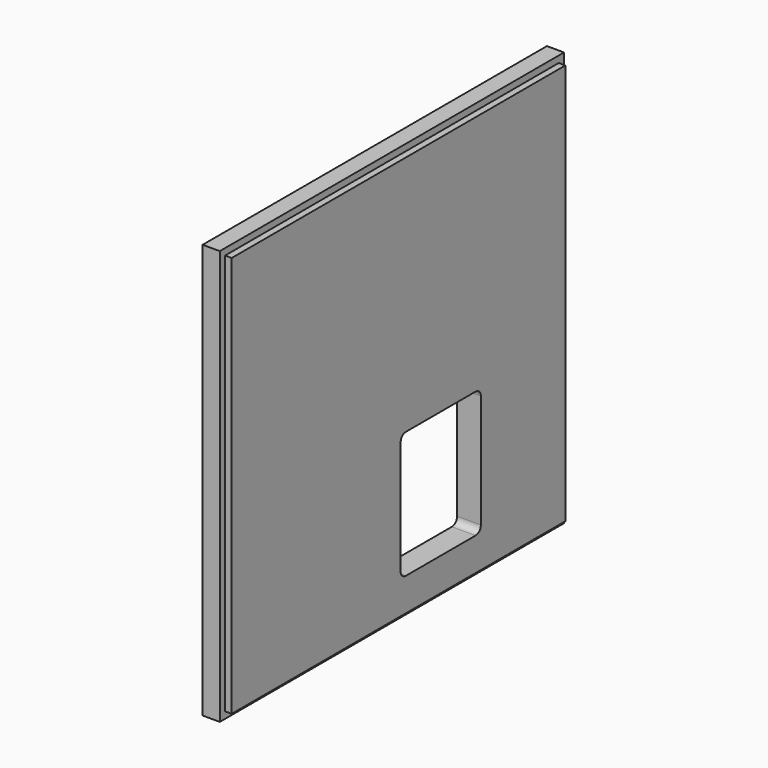
from build123d import *

# Parameters (mm, degrees)
F0_W     = 326
F0_H     = 314
F1_DEPTH = 18
F2_W     = 326
F2_H     = 314
F2_W_2   = 316
F2_H_2   = 304
F3_DEPTH = 5


with BuildPart() as f1:
    # F0 (on Right) → F1 (new body)
    with BuildSketch(Plane.YZ):
        Rectangle(F0_W, F0_H)
        with BuildLine():
            ThreePointArc((2, -36), (3.464466, -32.464466), (7, -31))
            Line((7, -31), (73, -31))
            ThreePointArc((73, -31), (76.535534, -32.464466), (78, -36))
            Line((78, -36), (78, -122))
            ThreePointArc((78, -122), (76.535534, -125.535534), (73, -127))
            Line((73, -127), (7, -127))
            ThreePointArc((7, -127), (3.464466, -125.535534), (2, -122))
            Line((2, -122), (2, -36))
        make_face(mode=Mode.SUBTRACT)
    extrude(amount=-F1_DEPTH)

    # F2 (on face) → F3 (cut)
    with BuildSketch(Plane.YZ):
        Rectangle(F2_W, F2_H)
        Rectangle(F2_W_2, F2_H_2, mode=Mode.SUBTRACT)
    extrude(amount=-F3_DEPTH, mode=Mode.SUBTRACT)


solid = f1.part
